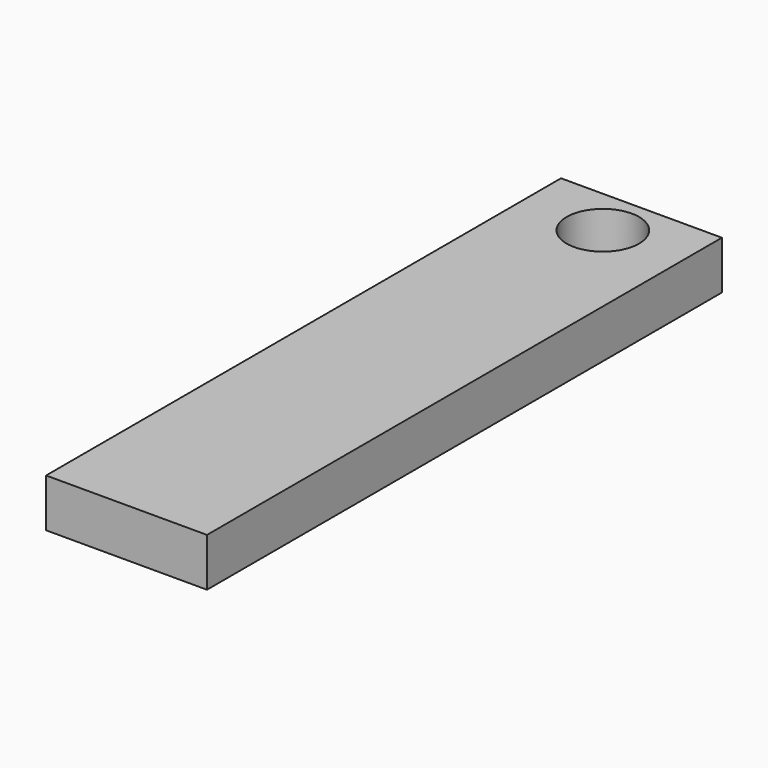
from build123d import *

# Parameters (mm, degrees)
SKETCH_W     = 10
SKETCH_H     = 40
PAD_DEPTH    = 3
SKETCH001_R  = 2.25
POCKET_DEPTH = 5


with BuildPart() as part:
    # Sketch → Pad (new body)
    with BuildSketch(Plane.XY):
        with Locations((0, -5.761565)):
            Rectangle(SKETCH_W, SKETCH_H)
    extrude(amount=PAD_DEPTH)

    # Sketch001 (on Face6 of Pad) → Pocket (cut)
    with BuildSketch(Plane.XY.offset(3)):
        with Locations((0, 11.238435)):
            Circle(SKETCH001_R)
    extrude(amount=-POCKET_DEPTH, mode=Mode.SUBTRACT)


solid = part.part
